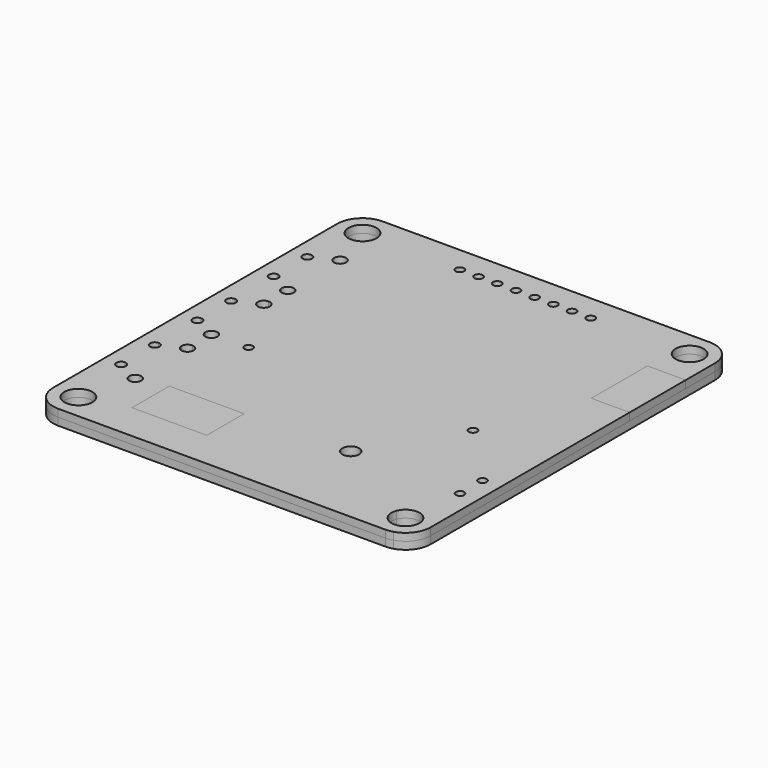
from build123d import *

# Parameters (mm, degrees)
F0_R     = 1.5
F1_DEPTH = 0.8
F0_W     = 4.1
F0_H     = 7.5
F2_DEPTH = 0.8
F3_DEPTH = 0.8
F4_DEPTH = 0.8


with BuildPart() as f1:
    # F0 (on Top) → F1 (new body)
    with BuildSketch(Plane.XY):
        with BuildLine():
            Line((17.5, 21.7), (-17.5, 21.7))
            ThreePointArc((-17.5, 21.7), (-19.409188, 20.909188), (-20.2, 19))
            Line((-20.2, 19), (-20.2, -19))
            ThreePointArc((-20.2, -19), (-19.409188, -20.909188), (-17.5, -21.7))
            Line((-17.5, -21.7), (-15.9, -21.7))
            Line((-15.9, -21.7), (-13.35, -21.7))
            Line((-13.35, -21.7), (-8.8, -21.7))
            Line((-8.8, -21.7), (-8.8, -17.7))
            Line((-8.8, -17.7), (-12.8, -17.7))
            Line((-12.8, -17.7), (-12.8, -12.7))
            Line((-12.8, -12.7), (-4.8, -12.7))
            Line((-4.8, -12.7), (-4.8, -15))
            ThreePointArc((-4.8, -15), (0.707107, -11.450253), (5, -16.4))
            ThreePointArc((5, -16.4), (3.535534, -19.935534), (0, -21.4))
            Line((0, -21.4), (0, -21.7))
            Line((0, -21.7), (6.4, -21.7))
            Line((6.4, -21.7), (16.1, -21.7))
            Line((16.1, -21.7), (16.1, -19.538516))
            ThreePointArc((16.1, -19.538516), (16, -19), (16.1, -18.461484))
            Line((16.1, -18.461484), (16.1, 7.6))
            Line((16.1, 7.6), (16.1, 15.1))
            Line((16.1, 15.1), (20.2, 15.1))
            Line((20.2, 15.1), (20.2, 19))
            ThreePointArc((20.2, 19), (19.409188, 20.909188), (17.5, 21.7))
        make_face()
        with Locations((-17.5, -19)):
            Circle(F0_R, mode=Mode.SUBTRACT)
        with BuildLine():
            ThreePointArc((-17.9, -12.15), (-18.046447, -12.503553), (-18.4, -12.65))
            ThreePointArc((-18.4, -12.65), (-18.9, -12.15), (-18.4, -11.65))
            ThreePointArc((-18.4, -11.65), (-18.046447, -11.796447), (-17.9, -12.15))
        make_face(mode=Mode.SUBTRACT)
        with BuildLine():
            ThreePointArc((-15.25, -13.4), (-15.440381, -13.859619), (-15.9, -14.05))
            ThreePointArc((-15.9, -14.05), (-16.359619, -13.859619), (-16.55, -13.4))
            ThreePointArc((-16.55, -13.4), (-15.9, -12.75), (-15.25, -13.4))
        make_face(mode=Mode.SUBTRACT)
        with BuildLine():
            ThreePointArc((-17.9, -7.65), (-18.046447, -8.003553), (-18.4, -8.15))
            ThreePointArc((-18.4, -8.15), (-18.9, -7.65), (-18.4, -7.15))
            ThreePointArc((-18.4, -7.15), (-18.046447, -7.296447), (-17.9, -7.65))
        make_face(mode=Mode.SUBTRACT)
        with BuildLine():
            ThreePointArc((-15.25, -6.4), (-15.9, -7.05), (-16.55, -6.4))
            ThreePointArc((-16.55, -6.4), (-16.359619, -5.940381), (-15.9, -5.75))
            ThreePointArc((-15.9, -5.75), (-15.440381, -5.940381), (-15.25, -6.4))
        make_face(mode=Mode.SUBTRACT)
        with BuildLine():
            ThreePointArc((-15.25, -3.2), (-15.440381, -3.659619), (-15.9, -3.85))
            ThreePointArc((-15.9, -3.85), (-16.359619, -3.659619), (-16.55, -3.2))
            ThreePointArc((-16.55, -3.2), (-15.9, -2.55), (-15.25, -3.2))
        make_face(mode=Mode.SUBTRACT)
        with BuildLine():
            ThreePointArc((-17.9, -1.95), (-18.046447, -2.303553), (-18.4, -2.45))
            ThreePointArc((-18.4, -2.45), (-18.9, -1.95), (-18.4, -1.45))
            ThreePointArc((-18.4, -1.45), (-18.046447, -1.596447), (-17.9, -1.95))
        make_face(mode=Mode.SUBTRACT)
        with BuildLine():
            ThreePointArc((-11.55, -3.1), (-11.681802, -3.418198), (-12, -3.55))
            ThreePointArc((-12, -3.55), (-12.318198, -2.781802), (-11.55, -3.1))
        make_face(mode=Mode.SUBTRACT)
        with BuildLine():
            ThreePointArc((7.3, -12.45), (7.036396, -13.086396), (6.4, -13.35))
            ThreePointArc((6.4, -13.35), (5.763604, -11.813604), (7.3, -12.45))
        make_face(mode=Mode.SUBTRACT)
        with BuildLine():
            ThreePointArc((12.45, -3.1), (12.318198, -3.418198), (12, -3.55))
            ThreePointArc((12, -3.55), (11.681802, -2.781802), (12.45, -3.1))
        make_face(mode=Mode.SUBTRACT)
        with BuildLine():
            ThreePointArc((-17.9, 2.55), (-18.046447, 2.196447), (-18.4, 2.05))
            ThreePointArc((-18.4, 2.05), (-18.9, 2.55), (-18.4, 3.05))
            ThreePointArc((-18.4, 3.05), (-18.046447, 2.903553), (-17.9, 2.55))
        make_face(mode=Mode.SUBTRACT)
        with BuildLine():
            ThreePointArc((-15.25, 3.8), (-15.9, 3.15), (-16.55, 3.8))
            ThreePointArc((-16.55, 3.8), (-16.359619, 4.259619), (-15.9, 4.45))
            ThreePointArc((-15.9, 4.45), (-15.440381, 4.259619), (-15.25, 3.8))
        make_face(mode=Mode.SUBTRACT)
        with BuildLine():
            ThreePointArc((-15.25, 7), (-15.440381, 6.540381), (-15.9, 6.35))
            ThreePointArc((-15.9, 6.35), (-16.359619, 6.540381), (-16.55, 7))
            ThreePointArc((-16.55, 7), (-15.9, 7.65), (-15.25, 7))
        make_face(mode=Mode.SUBTRACT)
        with BuildLine():
            ThreePointArc((-17.9, 8.25), (-18.046447, 7.896447), (-18.4, 7.75))
            ThreePointArc((-18.4, 7.75), (-18.9, 8.25), (-18.4, 8.75))
            ThreePointArc((-18.4, 8.75), (-18.046447, 8.603553), (-17.9, 8.25))
        make_face(mode=Mode.SUBTRACT)
        with BuildLine():
            ThreePointArc((-17.9, 12.75), (-18.046447, 12.396447), (-18.4, 12.25))
            ThreePointArc((-18.4, 12.25), (-18.9, 12.75), (-18.4, 13.25))
            ThreePointArc((-18.4, 13.25), (-18.046447, 13.103553), (-17.9, 12.75))
        make_face(mode=Mode.SUBTRACT)
        with BuildLine():
            ThreePointArc((-15.25, 14), (-15.9, 13.35), (-16.55, 14))
            ThreePointArc((-16.55, 14), (-15.9, 14.65), (-15.25, 14))
        make_face(mode=Mode.SUBTRACT)
        with Locations((-17.5, 19)):
            Circle(F0_R, mode=Mode.SUBTRACT)
        with BuildLine():
            ThreePointArc((-6.55, 18.9), (-6.681802, 18.581802), (-7, 18.45))
            ThreePointArc((-7, 18.45), (-7.318198, 19.218198), (-6.55, 18.9))
        make_face(mode=Mode.SUBTRACT)
        with BuildLine():
            ThreePointArc((-4.55, 18.9), (-5, 18.45), (-5.45, 18.9))
            ThreePointArc((-5.45, 18.9), (-5, 19.35), (-4.55, 18.9))
        make_face(mode=Mode.SUBTRACT)
        with BuildLine():
            ThreePointArc((-2.55, 18.9), (-3, 18.45), (-3.45, 18.9))
            ThreePointArc((-3.45, 18.9), (-3, 19.35), (-2.55, 18.9))
        make_face(mode=Mode.SUBTRACT)
        with BuildLine():
            ThreePointArc((-0.55, 18.9), (-1, 18.45), (-1.45, 18.9))
            ThreePointArc((-1.45, 18.9), (-1, 19.35), (-0.55, 18.9))
        make_face(mode=Mode.SUBTRACT)
        with BuildLine():
            ThreePointArc((1.45, 18.9), (1, 18.45), (0.55, 18.9))
            ThreePointArc((0.55, 18.9), (1, 19.35), (1.45, 18.9))
        make_face(mode=Mode.SUBTRACT)
        with BuildLine():
            ThreePointArc((3.45, 18.9), (3, 18.45), (2.55, 18.9))
            ThreePointArc((2.55, 18.9), (3, 19.35), (3.45, 18.9))
        make_face(mode=Mode.SUBTRACT)
        with BuildLine():
            ThreePointArc((5.45, 18.9), (5, 18.45), (4.55, 18.9))
            ThreePointArc((4.55, 18.9), (5, 19.35), (5.45, 18.9))
        make_face(mode=Mode.SUBTRACT)
        with BuildLine():
            ThreePointArc((7.45, 18.9), (7, 18.45), (6.55, 18.9))
            ThreePointArc((6.55, 18.9), (7, 19.35), (7.45, 18.9))
        make_face(mode=Mode.SUBTRACT)
        with Locations((17.5, 19)):
            Circle(F0_R, mode=Mode.SUBTRACT)
        with BuildLine():
            Line((20.2, -19), (20.2, 7.6))
            Line((20.2, 7.6), (16.1, 7.6))
            Line((16.1, 7.6), (16.1, -18.461484))
            ThreePointArc((16.1, -18.461484), (17.027401, -17.576395), (18.3, -17.731142))
            ThreePointArc((18.3, -17.731142), (18.813393, -18.275431), (19, -19))
            ThreePointArc((19, -19), (18.813393, -19.724569), (18.3, -20.268858))
            Line((18.3, -20.268858), (18.3, -21.578759))
            ThreePointArc((18.3, -21.578759), (19.673707, -20.601562), (20.2, -19))
        make_face()
        with BuildLine():
            ThreePointArc((18.75, -12.7), (18.618198, -13.018198), (18.3, -13.15))
            ThreePointArc((18.3, -13.15), (17.85, -12.7), (18.3, -12.25))
            ThreePointArc((18.3, -12.25), (18.618198, -12.381802), (18.75, -12.7))
        make_face(mode=Mode.SUBTRACT)
        with BuildLine():
            ThreePointArc((18.75, -9.7), (18.618198, -10.018198), (18.3, -10.15))
            ThreePointArc((18.3, -10.15), (17.981802, -9.381802), (18.75, -9.7))
        make_face(mode=Mode.SUBTRACT)
        with BuildLine():
            Line((-8.8, -17.7), (-8.8, -21.7))
            Line((-8.8, -21.7), (0, -21.7))
            Line((0, -21.7), (0, -21.4))
            ThreePointArc((0, -21.4), (-3.041381, -20.368627), (-4.828043, -17.7))
            Line((-4.828043, -17.7), (-8.8, -17.7))
        make_face()
        with BuildLine():
            ThreePointArc((-4.828043, -17.7), (-3.041381, -20.368627), (0, -21.4))
            ThreePointArc((0, -21.4), (3.535534, -19.935534), (5, -16.4))
            ThreePointArc((5, -16.4), (0.707107, -11.450253), (-4.8, -15))
            Line((-4.8, -15), (-4.8, -17.7))
            Line((-4.8, -17.7), (-4.828043, -17.7))
        make_face()
        with BuildLine():
            ThreePointArc((17.5, -21.7), (17.904567, -21.669518), (18.3, -21.578759))
            Line((18.3, -21.578759), (18.3, -20.268858))
            ThreePointArc((18.3, -20.268858), (17.027401, -20.423605), (16.1, -19.538516))
            Line((16.1, -19.538516), (16.1, -21.7))
            Line((16.1, -21.7), (17.5, -21.7))
        make_face()
    extrude(amount=F1_DEPTH)


with BuildPart() as f2:
    # F0 (on Top) → F2 (new body)
    with BuildSketch(Plane.XY):
        with BuildLine():
            Line((-12.8, -17.7), (-8.8, -17.7))
            Line((-8.8, -17.7), (-4.828043, -17.7))
            ThreePointArc((-4.828043, -17.7), (-4.99973, -16.348071), (-4.8, -15))
            Line((-4.8, -15), (-4.8, -12.7))
            Line((-4.8, -12.7), (-12.8, -12.7))
            Line((-12.8, -12.7), (-12.8, -17.7))
        make_face()
        with Locations((18.15, 11.35)):
            Rectangle(F0_W, F0_H)
        with BuildLine():
            ThreePointArc((-4.8, -15), (-4.99973, -16.348071), (-4.828043, -17.7))
            Line((-4.828043, -17.7), (-4.8, -17.7))
            Line((-4.8, -17.7), (-4.8, -15))
        make_face()
    extrude(amount=F2_DEPTH)


with BuildPart() as f3:
    # F0 (on Top) → F3 (new body)
    with BuildSketch(Plane.XY):
        with BuildLine():
            Line((17.5, 21.7), (-17.5, 21.7))
            ThreePointArc((-17.5, 21.7), (-19.409188, 20.909188), (-20.2, 19))
            Line((-20.2, 19), (-20.2, -19))
            ThreePointArc((-20.2, -19), (-19.409188, -20.909188), (-17.5, -21.7))
            Line((-17.5, -21.7), (-15.9, -21.7))
            Line((-15.9, -21.7), (-13.35, -21.7))
            Line((-13.35, -21.7), (-8.8, -21.7))
            Line((-8.8, -21.7), (-8.8, -17.7))
            Line((-8.8, -17.7), (-12.8, -17.7))
            Line((-12.8, -17.7), (-12.8, -12.7))
            Line((-12.8, -12.7), (-4.8, -12.7))
            Line((-4.8, -12.7), (-4.8, -15))
            ThreePointArc((-4.8, -15), (0.707107, -11.450253), (5, -16.4))
            ThreePointArc((5, -16.4), (3.535534, -19.935534), (0, -21.4))
            Line((0, -21.4), (0, -21.7))
            Line((0, -21.7), (6.4, -21.7))
            Line((6.4, -21.7), (16.1, -21.7))
            Line((16.1, -21.7), (16.1, -19.538516))
            ThreePointArc((16.1, -19.538516), (16, -19), (16.1, -18.461484))
            Line((16.1, -18.461484), (16.1, 7.6))
            Line((16.1, 7.6), (16.1, 15.1))
            Line((16.1, 15.1), (20.2, 15.1))
            Line((20.2, 15.1), (20.2, 19))
            ThreePointArc((20.2, 19), (19.409188, 20.909188), (17.5, 21.7))
        make_face()
        with Locations((-17.5, -19)):
            Circle(F0_R, mode=Mode.SUBTRACT)
        with BuildLine():
            ThreePointArc((-17.9, -12.15), (-18.046447, -12.503553), (-18.4, -12.65))
            ThreePointArc((-18.4, -12.65), (-18.9, -12.15), (-18.4, -11.65))
            ThreePointArc((-18.4, -11.65), (-18.046447, -11.796447), (-17.9, -12.15))
        make_face(mode=Mode.SUBTRACT)
        with BuildLine():
            ThreePointArc((-15.25, -13.4), (-15.440381, -13.859619), (-15.9, -14.05))
            ThreePointArc((-15.9, -14.05), (-16.359619, -13.859619), (-16.55, -13.4))
            ThreePointArc((-16.55, -13.4), (-15.9, -12.75), (-15.25, -13.4))
        make_face(mode=Mode.SUBTRACT)
        with BuildLine():
            ThreePointArc((-17.9, -7.65), (-18.046447, -8.003553), (-18.4, -8.15))
            ThreePointArc((-18.4, -8.15), (-18.9, -7.65), (-18.4, -7.15))
            ThreePointArc((-18.4, -7.15), (-18.046447, -7.296447), (-17.9, -7.65))
        make_face(mode=Mode.SUBTRACT)
        with BuildLine():
            ThreePointArc((-15.25, -6.4), (-15.9, -7.05), (-16.55, -6.4))
            ThreePointArc((-16.55, -6.4), (-16.359619, -5.940381), (-15.9, -5.75))
            ThreePointArc((-15.9, -5.75), (-15.440381, -5.940381), (-15.25, -6.4))
        make_face(mode=Mode.SUBTRACT)
        with BuildLine():
            ThreePointArc((-15.25, -3.2), (-15.440381, -3.659619), (-15.9, -3.85))
            ThreePointArc((-15.9, -3.85), (-16.359619, -3.659619), (-16.55, -3.2))
            ThreePointArc((-16.55, -3.2), (-15.9, -2.55), (-15.25, -3.2))
        make_face(mode=Mode.SUBTRACT)
        with BuildLine():
            ThreePointArc((-17.9, -1.95), (-18.046447, -2.303553), (-18.4, -2.45))
            ThreePointArc((-18.4, -2.45), (-18.9, -1.95), (-18.4, -1.45))
            ThreePointArc((-18.4, -1.45), (-18.046447, -1.596447), (-17.9, -1.95))
        make_face(mode=Mode.SUBTRACT)
        with BuildLine():
            ThreePointArc((-11.55, -3.1), (-11.681802, -3.418198), (-12, -3.55))
            ThreePointArc((-12, -3.55), (-12.318198, -2.781802), (-11.55, -3.1))
        make_face(mode=Mode.SUBTRACT)
        with BuildLine():
            ThreePointArc((7.3, -12.45), (7.036396, -13.086396), (6.4, -13.35))
            ThreePointArc((6.4, -13.35), (5.763604, -11.813604), (7.3, -12.45))
        make_face(mode=Mode.SUBTRACT)
        with BuildLine():
            ThreePointArc((12.45, -3.1), (12.318198, -3.418198), (12, -3.55))
            ThreePointArc((12, -3.55), (11.681802, -2.781802), (12.45, -3.1))
        make_face(mode=Mode.SUBTRACT)
        with BuildLine():
            ThreePointArc((-17.9, 2.55), (-18.046447, 2.196447), (-18.4, 2.05))
            ThreePointArc((-18.4, 2.05), (-18.9, 2.55), (-18.4, 3.05))
            ThreePointArc((-18.4, 3.05), (-18.046447, 2.903553), (-17.9, 2.55))
        make_face(mode=Mode.SUBTRACT)
        with BuildLine():
            ThreePointArc((-15.25, 3.8), (-15.9, 3.15), (-16.55, 3.8))
            ThreePointArc((-16.55, 3.8), (-16.359619, 4.259619), (-15.9, 4.45))
            ThreePointArc((-15.9, 4.45), (-15.440381, 4.259619), (-15.25, 3.8))
        make_face(mode=Mode.SUBTRACT)
        with BuildLine():
            ThreePointArc((-15.25, 7), (-15.440381, 6.540381), (-15.9, 6.35))
            ThreePointArc((-15.9, 6.35), (-16.359619, 6.540381), (-16.55, 7))
            ThreePointArc((-16.55, 7), (-15.9, 7.65), (-15.25, 7))
        make_face(mode=Mode.SUBTRACT)
        with BuildLine():
            ThreePointArc((-17.9, 8.25), (-18.046447, 7.896447), (-18.4, 7.75))
            ThreePointArc((-18.4, 7.75), (-18.9, 8.25), (-18.4, 8.75))
            ThreePointArc((-18.4, 8.75), (-18.046447, 8.603553), (-17.9, 8.25))
        make_face(mode=Mode.SUBTRACT)
        with BuildLine():
            ThreePointArc((-17.9, 12.75), (-18.046447, 12.396447), (-18.4, 12.25))
            ThreePointArc((-18.4, 12.25), (-18.9, 12.75), (-18.4, 13.25))
            ThreePointArc((-18.4, 13.25), (-18.046447, 13.103553), (-17.9, 12.75))
        make_face(mode=Mode.SUBTRACT)
        with BuildLine():
            ThreePointArc((-15.25, 14), (-15.9, 13.35), (-16.55, 14))
            ThreePointArc((-16.55, 14), (-15.9, 14.65), (-15.25, 14))
        make_face(mode=Mode.SUBTRACT)
        with Locations((-17.5, 19)):
            Circle(F0_R, mode=Mode.SUBTRACT)
        with BuildLine():
            ThreePointArc((-6.55, 18.9), (-6.681802, 18.581802), (-7, 18.45))
            ThreePointArc((-7, 18.45), (-7.318198, 19.218198), (-6.55, 18.9))
        make_face(mode=Mode.SUBTRACT)
        with BuildLine():
            ThreePointArc((-4.55, 18.9), (-5, 18.45), (-5.45, 18.9))
            ThreePointArc((-5.45, 18.9), (-5, 19.35), (-4.55, 18.9))
        make_face(mode=Mode.SUBTRACT)
        with BuildLine():
            ThreePointArc((-2.55, 18.9), (-3, 18.45), (-3.45, 18.9))
            ThreePointArc((-3.45, 18.9), (-3, 19.35), (-2.55, 18.9))
        make_face(mode=Mode.SUBTRACT)
        with BuildLine():
            ThreePointArc((-0.55, 18.9), (-1, 18.45), (-1.45, 18.9))
            ThreePointArc((-1.45, 18.9), (-1, 19.35), (-0.55, 18.9))
        make_face(mode=Mode.SUBTRACT)
        with BuildLine():
            ThreePointArc((1.45, 18.9), (1, 18.45), (0.55, 18.9))
            ThreePointArc((0.55, 18.9), (1, 19.35), (1.45, 18.9))
        make_face(mode=Mode.SUBTRACT)
        with BuildLine():
            ThreePointArc((3.45, 18.9), (3, 18.45), (2.55, 18.9))
            ThreePointArc((2.55, 18.9), (3, 19.35), (3.45, 18.9))
        make_face(mode=Mode.SUBTRACT)
        with BuildLine():
            ThreePointArc((5.45, 18.9), (5, 18.45), (4.55, 18.9))
            ThreePointArc((4.55, 18.9), (5, 19.35), (5.45, 18.9))
        make_face(mode=Mode.SUBTRACT)
        with BuildLine():
            ThreePointArc((7.45, 18.9), (7, 18.45), (6.55, 18.9))
            ThreePointArc((6.55, 18.9), (7, 19.35), (7.45, 18.9))
        make_face(mode=Mode.SUBTRACT)
        with Locations((17.5, 19)):
            Circle(F0_R, mode=Mode.SUBTRACT)
        with Locations((18.15, 11.35)):
            Rectangle(F0_W, F0_H)
        with BuildLine():
            Line((20.2, -19), (20.2, 7.6))
            Line((20.2, 7.6), (16.1, 7.6))
            Line((16.1, 7.6), (16.1, -18.461484))
            ThreePointArc((16.1, -18.461484), (17.027401, -17.576395), (18.3, -17.731142))
            ThreePointArc((18.3, -17.731142), (18.813393, -18.275431), (19, -19))
            ThreePointArc((19, -19), (18.813393, -19.724569), (18.3, -20.268858))
            Line((18.3, -20.268858), (18.3, -21.578759))
            ThreePointArc((18.3, -21.578759), (19.673707, -20.601562), (20.2, -19))
        make_face()
        with BuildLine():
            ThreePointArc((18.75, -12.7), (18.618198, -13.018198), (18.3, -13.15))
            ThreePointArc((18.3, -13.15), (17.85, -12.7), (18.3, -12.25))
            ThreePointArc((18.3, -12.25), (18.618198, -12.381802), (18.75, -12.7))
        make_face(mode=Mode.SUBTRACT)
        with BuildLine():
            ThreePointArc((18.75, -9.7), (18.618198, -10.018198), (18.3, -10.15))
            ThreePointArc((18.3, -10.15), (17.981802, -9.381802), (18.75, -9.7))
        make_face(mode=Mode.SUBTRACT)
        with BuildLine():
            Line((-8.8, -17.7), (-8.8, -21.7))
            Line((-8.8, -21.7), (0, -21.7))
            Line((0, -21.7), (0, -21.4))
            ThreePointArc((0, -21.4), (-3.041381, -20.368627), (-4.828043, -17.7))
            Line((-4.828043, -17.7), (-8.8, -17.7))
        make_face()
        with BuildLine():
            Line((-12.8, -17.7), (-8.8, -17.7))
            Line((-8.8, -17.7), (-4.828043, -17.7))
            ThreePointArc((-4.828043, -17.7), (-4.99973, -16.348071), (-4.8, -15))
            Line((-4.8, -15), (-4.8, -12.7))
            Line((-4.8, -12.7), (-12.8, -12.7))
            Line((-12.8, -12.7), (-12.8, -17.7))
        make_face()
        with BuildLine():
            ThreePointArc((17.5, -21.7), (17.904567, -21.669518), (18.3, -21.578759))
            Line((18.3, -21.578759), (18.3, -20.268858))
            ThreePointArc((18.3, -20.268858), (17.027401, -20.423605), (16.1, -19.538516))
            Line((16.1, -19.538516), (16.1, -21.7))
            Line((16.1, -21.7), (17.5, -21.7))
        make_face()
    extrude(amount=-F3_DEPTH)


with BuildPart() as f4:
    # F0 (on Top) → F4 (new body)
    with BuildSketch(Plane.XY):
        with BuildLine():
            ThreePointArc((-4.828043, -17.7), (-3.041381, -20.368627), (0, -21.4))
            ThreePointArc((0, -21.4), (3.535534, -19.935534), (5, -16.4))
            ThreePointArc((5, -16.4), (0.707107, -11.450253), (-4.8, -15))
            Line((-4.8, -15), (-4.8, -17.7))
            Line((-4.8, -17.7), (-4.828043, -17.7))
        make_face()
    extrude(amount=-F4_DEPTH)


solid = Compound([f1.part, f2.part, f3.part, f4.part])
